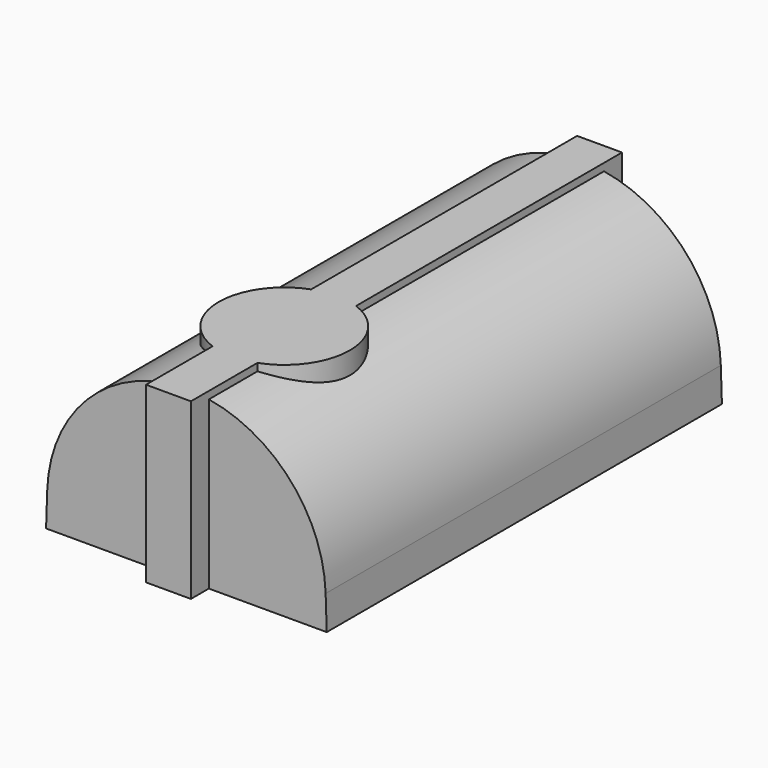
from build123d import *

# Parameters (mm, degrees)
F1_DEPTH = 1100
F3_DEPTH = 775


with BuildPart() as f1:
    # F0 (on Front) → F1 (new body, symmetric)
    with BuildSketch(Plane.XZ):
        with BuildLine():
            ThreePointArc((0, 750), (-431.4164218185, 575.4432248237), (-620.0649289055, 150))
            Line((-620.0649289055, 150), (-625, 0))
            Line((-625, 0), (0, 0))
            Line((0, 0), (625, 0))
            Line((625, 0), (620.0649289055, 150))
            ThreePointArc((620.0649289055, 150), (431.4164218185, 575.4432248237), (0, 750))
        make_face()
    extrude(amount=F1_DEPTH, both=True)

    # F2 (on Top) → F3 (join)
    with BuildSketch(Plane.XY):
        with BuildLine():
            Line((100, -280.6940547423), (100, 1200))
            Line((100, 1200), (-100, 1200))
            Line((-100, 1200), (-100, -280.6940547423))
            ThreePointArc((-100, -280.6940547423), (0, -263.0393671086), (100, -280.6940547423))
        make_face()
        with BuildLine():
            ThreePointArc((292.0382452915, -555.0776124001), (239.2594420729, -387.6223763162), (100, -280.6940547423))
            Line((100, -280.6940547423), (100, -829.4611700578))
            ThreePointArc((100, -829.4611700578), (239.2594420729, -722.5328484839), (292.0382452915, -555.0776124001))
        make_face()
        with BuildLine():
            Line((100, -829.4611700578), (100, -280.6940547423))
            ThreePointArc((100, -280.6940547423), (0, -263.0393671086), (-100, -280.6940547423))
            Line((-100, -280.6940547423), (-100, -829.4611700578))
            ThreePointArc((-100, -829.4611700578), (0, -847.1158576915), (100, -829.4611700578))
        make_face()
        with BuildLine():
            Line((-100, -829.4611700578), (-100, -280.6940547423))
            ThreePointArc((-100, -280.6940547423), (-292.0382452915, -555.0776124001), (-100, -829.4611700578))
        make_face()
        with BuildLine():
            Line((100, -1200), (100, -829.4611700578))
            ThreePointArc((100, -829.4611700578), (0, -847.1158576915), (-100, -829.4611700578))
            Line((-100, -829.4611700578), (-100, -1200))
            Line((-100, -1200), (100, -1200))
        make_face()
    extrude(amount=F3_DEPTH)


solid = f1.part
